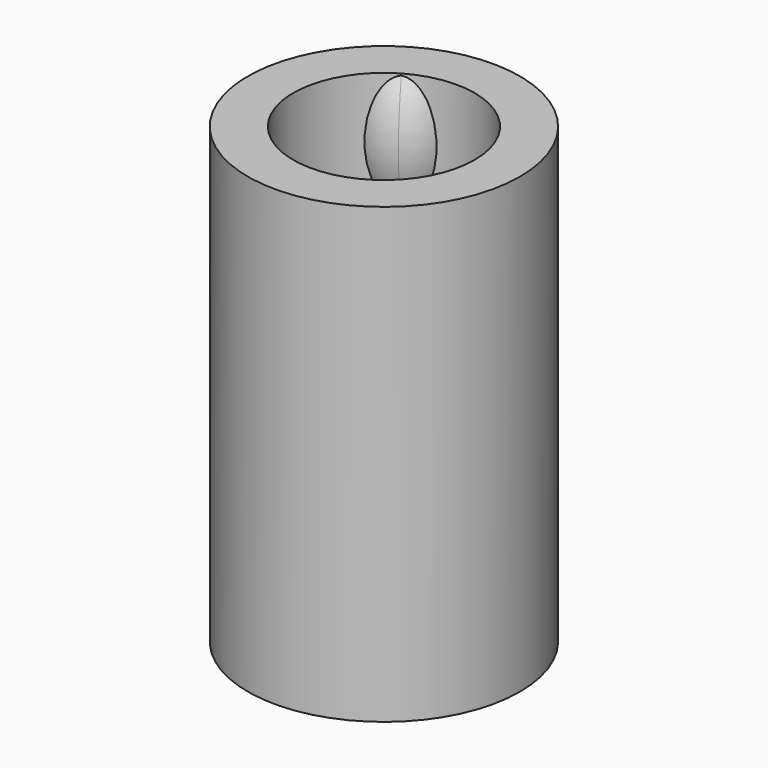
from build123d import *

# Parameters (mm, degrees)
SKETCH004_R             = 3.55
HOLE_DEPTH              = 35.001
REVOLUTION001_ANGLE     = 120
REVOLUTION002_ANGLE     = 120
BODY002_PLACEMENT_ANGLE = 120
REVOLUTION003_ANGLE     = 120
BODY003_PLACEMENT_ANGLE = 240
REVOLUTION004_ANGLE     = 120
REVOLUTION005_ANGLE     = 120
BODY005_PLACEMENT_ANGLE = 120
REVOLUTION006_ANGLE     = 120
BODY006_PLACEMENT_ANGLE = 240


with BuildPart() as sleeve:
    # Sketch → Revolution (revolve)
    with BuildSketch(Plane.XZ):
        Polygon((0, 0), (10.5, 0), (10.5, 35), (7, 35), (7, 3.5), (0, 3.5), align=None)
    revolve(axis=Axis((0, 0, 0), (0, 0, 1)))

    # Sketch004 → Hole (cut, through all)
    with BuildSketch(Plane.XY):
        Circle(SKETCH004_R)
    extrude(amount=HOLE_DEPTH, mode=Mode.SUBTRACT)


with BuildPart() as body001:
    # Sketch003 → Revolution001 (revolve, symmetric)
    with BuildSketch(Plane.XZ) as revolution001_sk:
        with BuildLine():
            ThreePointArc((7, 12.456922), (5.8, 7.978461), (7, 3.5))
            Line((7, 12.456922), (7, 3.5))
        make_face()
    revolve(axis=Axis((9.13913, 0, 0), (0, 0, 1)), revolution_arc=REVOLUTION001_ANGLE / 2)
    revolve(revolution001_sk.sketch, axis=Axis((9.13913, 0, 0), (0, 0, -1)), revolution_arc=REVOLUTION001_ANGLE / 2)


with BuildPart() as body002:
    # Sketch003 → Revolution002 (revolve, symmetric)
    with BuildSketch(Plane.XZ) as revolution002_sk:
        with BuildLine():
            ThreePointArc((7, 12.456922), (5.8, 7.978461), (7, 3.5))
            Line((7, 12.456922), (7, 3.5))
        make_face()
    revolve(axis=Axis((9.13913, 0, 0), (0, 0, 1)), revolution_arc=REVOLUTION002_ANGLE / 2)
    revolve(revolution002_sk.sketch, axis=Axis((9.13913, 0, 0), (0, 0, -1)), revolution_arc=REVOLUTION002_ANGLE / 2)


with BuildPart() as body002_1:
    # Body002 placement: moved
    add(body002.part.rotate(Axis((0, 0, 0), (0, 0, 1)), BODY002_PLACEMENT_ANGLE))


with BuildPart() as body003:
    # Sketch003 → Revolution003 (revolve, symmetric)
    with BuildSketch(Plane.XZ) as revolution003_sk:
        with BuildLine():
            ThreePointArc((7, 12.456922), (5.8, 7.978461), (7, 3.5))
            Line((7, 12.456922), (7, 3.5))
        make_face()
    revolve(axis=Axis((9.13913, 0, 0), (0, 0, 1)), revolution_arc=REVOLUTION003_ANGLE / 2)
    revolve(revolution003_sk.sketch, axis=Axis((9.13913, 0, 0), (0, 0, -1)), revolution_arc=REVOLUTION003_ANGLE / 2)


with BuildPart() as body003_1:
    # Body003 placement: moved
    add(body003.part.rotate(Axis((0, 0, 0), (0, 0, 1)), BODY003_PLACEMENT_ANGLE))


with BuildPart() as body004:
    # Sketch003 → Revolution004 (revolve, symmetric)
    with BuildSketch(Plane.XZ) as revolution004_sk:
        with BuildLine():
            ThreePointArc((7, 12.456922), (5.8, 7.978461), (7, 3.5))
            Line((7, 12.456922), (7, 3.5))
        make_face()
    revolve(axis=Axis((9.13913, 0, 0), (0, 0, 1)), revolution_arc=REVOLUTION004_ANGLE / 2)
    revolve(revolution004_sk.sketch, axis=Axis((9.13913, 0, 0), (0, 0, -1)), revolution_arc=REVOLUTION004_ANGLE / 2)


with BuildPart() as body004_1:
    # Body004 placement: moved
    add(body004.part.moved(Location((0, 0, 22.4))))


with BuildPart() as body005:
    # Sketch003 → Revolution005 (revolve, symmetric)
    with BuildSketch(Plane.XZ) as revolution005_sk:
        with BuildLine():
            ThreePointArc((7, 12.456922), (5.8, 7.978461), (7, 3.5))
            Line((7, 12.456922), (7, 3.5))
        make_face()
    revolve(axis=Axis((9.13913, 0, 0), (0, 0, 1)), revolution_arc=REVOLUTION005_ANGLE / 2)
    revolve(revolution005_sk.sketch, axis=Axis((9.13913, 0, 0), (0, 0, -1)), revolution_arc=REVOLUTION005_ANGLE / 2)


with BuildPart() as body005_1:
    # Body005 placement: moved
    add(body005.part.moved(Location((0, 0, 22.4))).rotate(Axis((0, 0, 22.4), (0, 0, 1)), BODY005_PLACEMENT_ANGLE))


with BuildPart() as body006:
    # Sketch003 → Revolution006 (revolve, symmetric)
    with BuildSketch(Plane.XZ) as revolution006_sk:
        with BuildLine():
            ThreePointArc((7, 12.456922), (5.8, 7.978461), (7, 3.5))
            Line((7, 12.456922), (7, 3.5))
        make_face()
    revolve(axis=Axis((9.13913, 0, 0), (0, 0, 1)), revolution_arc=REVOLUTION006_ANGLE / 2)
    revolve(revolution006_sk.sketch, axis=Axis((9.13913, 0, 0), (0, 0, -1)), revolution_arc=REVOLUTION006_ANGLE / 2)


with BuildPart() as body006_1:
    # Body006 placement: moved
    add(body006.part.moved(Location((0, 0, 22.4))).rotate(Axis((0, 0, 22.4), (0, 0, 1)), BODY006_PLACEMENT_ANGLE))


solid = Compound([sleeve.part, body001.part, body002_1.part, body003_1.part, body004_1.part, body005_1.part, body006_1.part])
